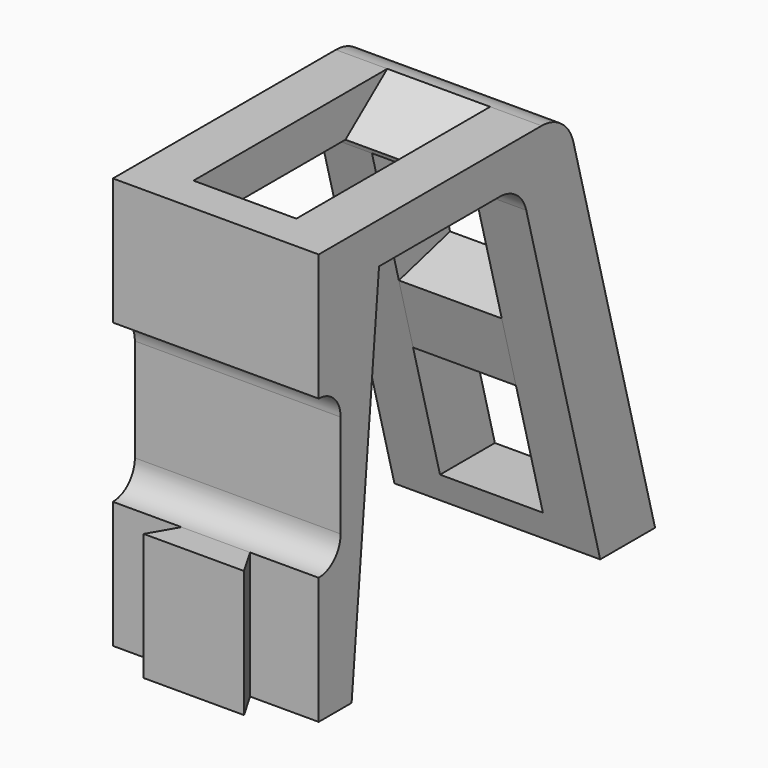
from build123d import *

# Parameters (mm, degrees)
PAD015_DEPTH         = 15
POCKET012_DEPTH      = 187.2426560764
POCKET012_DEPTH_BACK = 247.2426560764
SKETCH035_W          = 4
SKETCH035_H          = 14.6188021535
POCKET014_DEPTH      = 25
SKETCH040_W          = 56
SKETCH040_H          = 15
POCKET020_DEPTH      = 56
PAD021_DEPTH         = 15


with BuildPart() as part:
    # Sketch027 → Pad015 (new body, symmetric)
    with BuildSketch(Plane.YZ):
        with BuildLine():
            Line((-15, 6), (-15, -12.5))
            Line((-15, -12.5), (-11, -12.5))
            ThreePointArc((-7, -16.5), (-8.1715728753, -13.6715728753), (-11, -12.5))
            Line((-7, -16.5), (-7, -31.5))
            ThreePointArc((-11, -35.5), (-8.1715728753, -34.3284271247), (-7, -31.5))
            Line((-15, -35.5), (-11, -35.5))
            Line((-15, -35.5), (-15, -54))
            Line((-5, -54), (-15, -54))
            Line((0, 0), (-5, -54))
            Line((0, 0), (22, 0))
            ThreePointArc((26.8296291314, -3.7059047745), (25.043807145, -1.0332332985), (22, 0))
            Line((26.8296291314, -3.7059047745), (40.3058913312, -54))
            Line((50.3058913312, -54), (40.3058913312, -54))
            Line((50.3058913312, -54), (35.4205328152, 1.5529142706))
            ThreePointArc((35.4205328152, 1.5529142706), (33.2775464315, 4.7601200417), (29.6249778574, 6))
            Line((29.6249778574, 6), (-15, 6))
        make_face()
    extrude(amount=PAD015_DEPTH, both=True)

    # Sketch033 → Pocket012 (cut, two sides)
    with BuildSketch(Plane.XY.offset(-54)) as pocket012_sk:
        Polygon((-15, -11), (-15, -15), (-7.3094010768, -15), (-5, -11), align=None)
    pocket012 = extrude(amount=-POCKET012_DEPTH, mode=Mode.SUBTRACT) + extrude(pocket012_sk.sketch, amount=POCKET012_DEPTH_BACK, mode=Mode.SUBTRACT)

    # Mirrored004: Pocket012 across YZ
    add(pocket012.mirror(Plane.YZ), mode=Mode.SUBTRACT)

    # Sketch035 (on Face11 of Mirrored004) → Pocket014 (cut)
    with BuildSketch(Plane.YX.offset(-6)):
        with Locations((-13, 0)):
            Rectangle(SKETCH035_W, SKETCH035_H)
    extrude(amount=POCKET014_DEPTH, mode=Mode.SUBTRACT)

    # Sketch040 (on Face7 of Pocket014) → Pocket020 (cut)
    with BuildSketch(Plane(origin=(0, 0, 6), x_dir=(0, -1, 0), z_dir=(0, 0, 1))):
        with Locations((-22.3058913312, 0)):
            Rectangle(SKETCH040_W, SKETCH040_H)
    extrude(amount=-POCKET020_DEPTH, mode=Mode.SUBTRACT)

    # Sketch042 (on Face6 of Pocket020) → Pad021 (join)
    with BuildSketch(Plane(origin=(7.5, 0, 0), x_dir=(0, 1, 0), z_dir=(-1, 0, 0))):
        with BuildLine():
            Line((26.8296291314, 3.7059047745), (35.4205328152, -1.5529142706))
            ThreePointArc((29.6249778574, -6), (33.2775464315, -4.7601200417), (35.4205328152, -1.5529142706))
            Line((22, 0), (29.6249778574, -6))
            ThreePointArc((22, 0), (25.043807145, 1.0332332985), (26.8296291314, 3.7059047745))
        make_face()
        Polygon((34.325957072, 31.6825815187), (31.7377666209, 22.0233232558), (41.0678936399, 19.5233232558), (43.6560840909, 29.1825815187), align=None)
    extrude(amount=PAD021_DEPTH)


with BuildPart() as part_1:
    # Body014 placement: moved
    add(part.part.moved(Location((-22, 0, 0))))


solid = part_1.part
